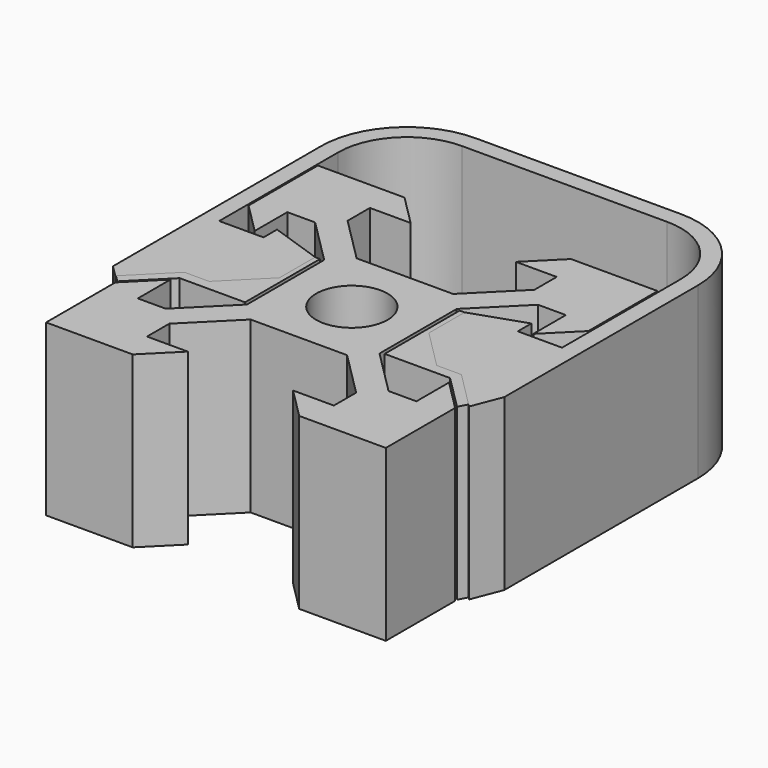
from build123d import *

# Parameters (mm, degrees)
SKETCH_R      = 2.1
EXTRUDE_DEPTH = 10
PAD_DEPTH     = 10
PAD001_DEPTH  = 10


with BuildPart() as extrude_body:
    # Sketch → Extrude (new body)
    with BuildSketch(Plane.XY):
        Polygon((-2.84, 3.90066), (-5.49934, 6.56), (-5.49934, 8.2), (-3.1, 8.2), (-4.9, 10), (-10, 10), (-10, 4.9), (-8.2, 3.1), (-8.2, 5.49934), (-6.56, 5.49934), (-3.90066, 2.84), (-3.90066, 0), (-3.90066, -2.84), (-6.56, -5.49934), (-8.2, -5.49934), (-8.2, -3.1), (-10, -4.9), (-10, -10), (-4.9, -10), (-3.1, -8.2), (-5.49934, -8.2), (-5.49934, -6.56), (-2.84, -3.90066), (0, -3.90066), (2.84, -3.90066), (5.49934, -6.56), (5.49934, -8.2), (3.1, -8.2), (4.9, -10), (10, -10), (10, -4.9), (8.2, -3.1), (8.2, -5.49934), (6.56, -5.49934), (3.90066, -2.84), (3.90066, 0), (3.90066, 2.84), (6.56, 5.49934), (8.2, 5.49934), (8.2, 3.1), (10, 4.9), (10, 10), (4.9, 10), (3.1, 8.2), (5.49934, 8.2), (5.49934, 6.56), (2.84, 3.90066), (0, 3.90066), align=None)
        Circle(SKETCH_R, mode=Mode.SUBTRACT)
    extrude(amount=EXTRUDE_DEPTH)


with BuildPart() as body:
    # Sketch001 → Pad (new body)
    with BuildSketch(Plane.XY):
        with BuildLine():
            Line((-4.109357, 2.795605), (-10.092726, 2.795605))
            Line((-10.092726, 2.795605), (-10.092726, 11.604547))
            ThreePointArc((-6.043087, 15.654186), (-8.906614, 14.468074), (-10.092726, 11.604547))
            Line((-6.043087, 15.654186), (6.043087, 15.654186))
            ThreePointArc((10.092726, 11.604547), (8.906614, 14.468074), (6.043087, 15.654186))
            Line((10.092726, 11.604547), (10.092726, 2.795605))
            Line((10.092726, 2.795605), (4.109357, 2.795605))
            Line((4.109357, 2.795605), (4.109357, -2.722318))
            Line((4.109357, -2.722318), (7.960155, -2.722318))
            Line((7.960155, -2.722318), (9.998449, -4.760612))
            Line((9.998449, -4.760612), (11.092726, -2.644745))
            Line((11.092726, -2.644745), (11.092726, 11.604547))
            ThreePointArc((11.092726, 11.604547), (9.613721, 15.175181), (6.043087, 16.654186))
            Line((6.043087, 16.654186), (-6.043087, 16.654186))
            ThreePointArc((-6.043087, 16.654186), (-9.613721, 15.175181), (-11.092726, 11.604547))
            Line((-11.092726, 11.604547), (-11.092726, -3.666335))
            Line((-9.998449, -4.760612), (-11.092726, -3.666335))
            Line((-7.960155, -2.722318), (-9.998449, -4.760612))
            Line((-4.109357, -2.722318), (-7.960155, -2.722318))
            Line((-4.109357, -2.722318), (-4.109357, 2.795605))
        make_face()
    extrude(amount=PAD_DEPTH)


with BuildPart() as body001:
    # Sketch002 → Pad001 (new body)
    with BuildSketch(Plane.XY):
        with BuildLine():
            Line((-10.09111, 2.853201), (-10.09111, 11.604758))
            ThreePointArc((-6.042314, 15.653553), (-8.905245, 14.467688), (-10.09111, 11.604758))
            Line((-6.042314, 15.653553), (6.042314, 15.653553))
            ThreePointArc((10.09111, 11.604758), (8.905245, 14.467688), (6.042314, 15.653553))
            Line((10.09111, 11.604758), (10.09111, 2.853201))
            Line((7.485281, 2.853201), (10.09111, 2.853201))
            Line((7.485281, 2.853201), (7.485281, 3.853201))
            Line((4.4, 2.8), (7.485281, 3.853201))
            Line((4.4, 2.8), (4.4, 0.170135))
            Line((4.4, 0.170135), (6.698075, -2.12794))
            Line((6.698075, -2.12794), (8.151996, -2.12794))
            Line((8.151996, -2.12794), (10.413384, -4.389328))
            Line((10.413384, -4.389328), (11.09111, -2.644745))
            Line((11.09111, -2.644745), (11.09111, 11.604758))
            ThreePointArc((11.09111, 11.604758), (9.612352, 15.174795), (6.042314, 16.653553))
            Line((6.042314, 16.653553), (-6.042314, 16.653553))
            ThreePointArc((-6.042314, 16.653553), (-9.612352, 15.174795), (-11.09111, 11.604758))
            Line((-11.09111, 11.604758), (-11.09111, -3.711602))
            Line((-10.413384, -4.389328), (-11.09111, -3.711602))
            Line((-8.151996, -2.12794), (-10.413384, -4.389328))
            Line((-8.151996, -2.12794), (-6.698075, -2.12794))
            Line((-4.4, 0.170135), (-6.698075, -2.12794))
            Line((-4.4, 2.8), (-4.4, 0.170135))
            Line((-7.485281, 3.853201), (-4.4, 2.8))
            Line((-7.485281, 2.853201), (-7.485281, 3.853201))
            Line((-10.09111, 2.853201), (-7.485281, 2.853201))
        make_face()
    extrude(amount=PAD001_DEPTH)


solid = Compound([extrude_body.part, body.part, body001.part])
